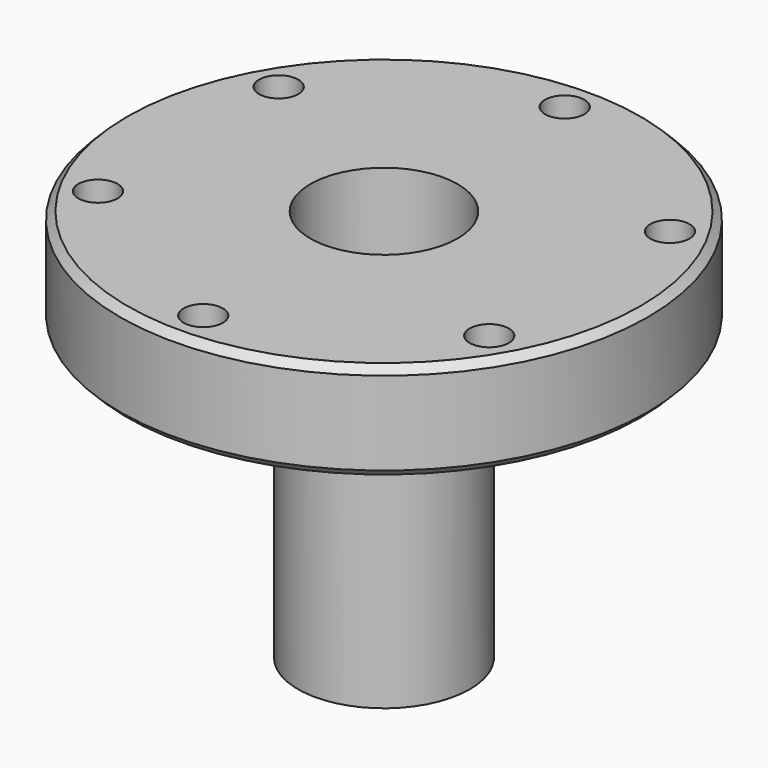
from build123d import *

# Parameters (mm, degrees)
F0_R      = 68.2625
F1_DEPTH  = 25.4
F2_R      = 38.1
F3_DEPTH  = 101.6
F4_R      = 19.05
F5_DEPTH  = 101.6
F6_R      = 22.225
F7_DEPTH  = 76.2
F8_R      = 5.08
F9_DEPTH  = 25.4
F10_SIZE  = 1.905
F11_DEPTH = 101.6


with BuildPart() as f1:
    # F0 (on Top) → F1 (new body)
    with BuildSketch(Plane.XY):
        Circle(F0_R)
    extrude(amount=F1_DEPTH)

    # F2 (on face) → F3 (join)
    with BuildSketch(Plane(origin=(0, 0, 0), x_dir=(1, 0, 0), z_dir=(0, 0, -1))):
        Circle(F2_R)
    extrude(amount=F3_DEPTH)

    # F4 (on face) → F5 (cut)
    with BuildSketch(Plane.XY.offset(25.4)):
        Circle(F4_R)
    extrude(amount=-F5_DEPTH, mode=Mode.SUBTRACT)

    # F6 (on face) → F7 (cut)
    with BuildSketch(Plane.XY.offset(-76.2)):
        Circle(F6_R)
    extrude(amount=-F7_DEPTH, mode=Mode.SUBTRACT)

    # F8 (on face) → F9 (cut)
    with BuildSketch(Plane.XY.offset(25.4)):
        with Locations((0, 58.42)):
            Circle(F8_R)
        with Locations((-50.5932040891, 29.21)):
            Circle(F8_R)
        with Locations((-50.5932040891, -29.21)):
            Circle(F8_R)
        with Locations((0, -58.42)):
            Circle(F8_R)
        with Locations((50.5932040891, -29.21)):
            Circle(F8_R)
        with Locations((50.5932040891, 29.21)):
            Circle(F8_R)
    extrude(amount=-F9_DEPTH, mode=Mode.SUBTRACT)

    # F10
    f10_edges = [f1.edges().sort_by_distance(p)[0] for p in [
        (-68.2625, 0, 25.4),
        (-68.2625, 0, 0),
    ]]
    chamfer(f10_edges, length=F10_SIZE)

    # F11 (cut): a face of the model
    f11_faces = [f1.faces().sort_by_distance(p)[0] for p in [
        (-37.0223692655, 0, -101.6),
    ]]
    extrude(f11_faces, amount=-F11_DEPTH, mode=Mode.SUBTRACT)


solid = f1.part
